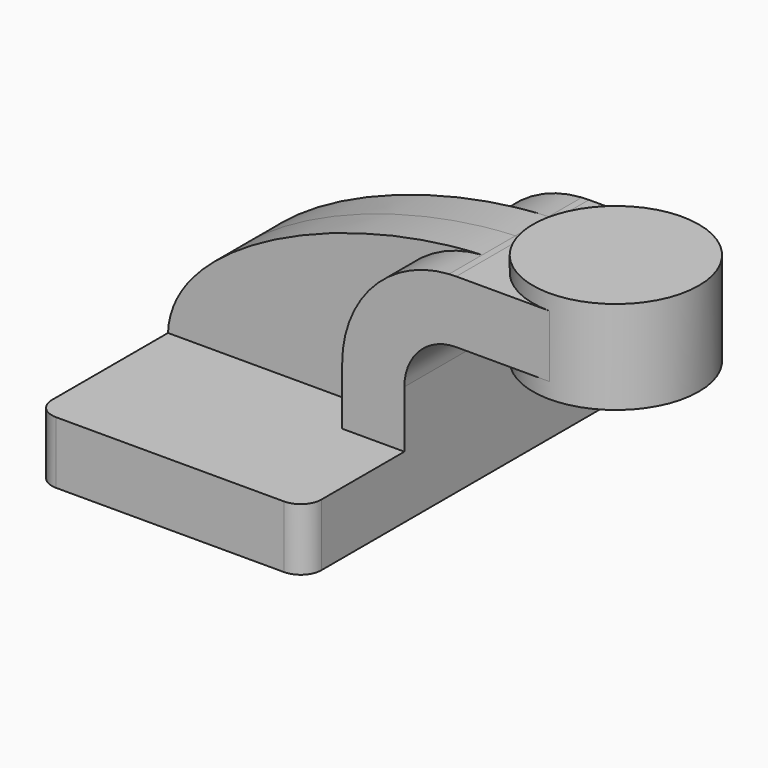
from build123d import *

# Parameters (mm, degrees)
F1_DEPTH = 63.5
F0_W     = 25.4
F0_H     = 19.05
F2_DEPTH = 25.4
F3_DEPTH = 12.7
F5_R     = 6.35


with BuildPart() as f1:
    # F0 (on Front) → F1 (new body, symmetric)
    with BuildSketch(Plane.XZ):
        Polygon((41.275, -9.525), (41.275, 9.525), (22.225, 9.525), (-41.275, 9.525), (-41.275, -9.525), align=None)
    extrude(amount=F1_DEPTH, both=True)

    # F0 (on Front) → F2 (join, symmetric)
    with BuildSketch(Plane.XZ):
        with BuildLine():
            Line((22.225, 9.525), (41.275, 9.525))
            Line((41.275, 9.525), (41.275, 27.0002))
            ThreePointArc((41.275, 27.0002), (45.92468, 38.22552), (57.15, 42.8752))
            Line((57.15, 42.8752), (60.325, 42.8752))
            Line((60.325, 42.8752), (60.325, 61.9252))
            Line((60.325, 61.9252), (57.15, 61.9252))
            add(Edge.make_bspline(
                [(54.968883, 61.857026), (55.698999, 61.886176), (56.426142, 61.908931), (57.15, 61.9252)],
                knots=[109.624995, 109.624995, 109.624995, 109.624995, 111.504536, 111.504536, 111.504536, 111.504536], degree=3))
            ThreePointArc((54.968883, 61.857026), (31.694832, 50.912332), (22.225, 27.0002))
            Line((22.225, 27.0002), (22.225, 9.525))
        make_face()
        with Locations((73.025, 52.4002)):
            Rectangle(F0_W, F0_H)
        with Locations((73.025, 52.4002)):
            Rectangle(F0_W, F0_H)
    extrude(amount=F2_DEPTH, both=True)

    # F0 (on Front) → F3 (join, symmetric)
    with BuildSketch(Plane.XZ):
        with BuildLine():
            Line((-41.275, 9.525), (22.225, 9.525))
            Line((22.225, 9.525), (22.225, 27.0002))
            ThreePointArc((22.225, 27.0002), (31.694832, 50.912332), (54.968883, 61.857026))
            add(Edge.make_bspline(
                [(-41.275, 9.525), (-40.314914, 36.701423), (12.384545, 60.156845), (54.968883, 61.857026)],
                knots=[0, 0, 0, 0, 109.624995, 109.624995, 109.624995, 109.624995], degree=3))
        make_face()
    extrude(amount=F3_DEPTH, both=True)

    # F0 (on Front) → F4 (revolve)
    with BuildSketch(Plane.XZ):
        Polygon((85.725, 61.9252), (85.725, 42.8752), (85.725, 38.1), (111.125, 38.1), (111.125, 66.675), (85.725, 66.675), align=None)
    revolve(axis=Axis((85.725, 0, 52.3875), (0, 0, 1)))

    # F5
    f5_edges = [f1.edges().sort_by_distance(p)[0] for p in [
        (41.275, -63.5, 0),
        (-41.275, -63.5, 0),
        (-41.275, 63.5, 0),
        (41.275, 63.5, 0),
    ]]
    fillet(f5_edges, radius=F5_R)


solid = f1.part
